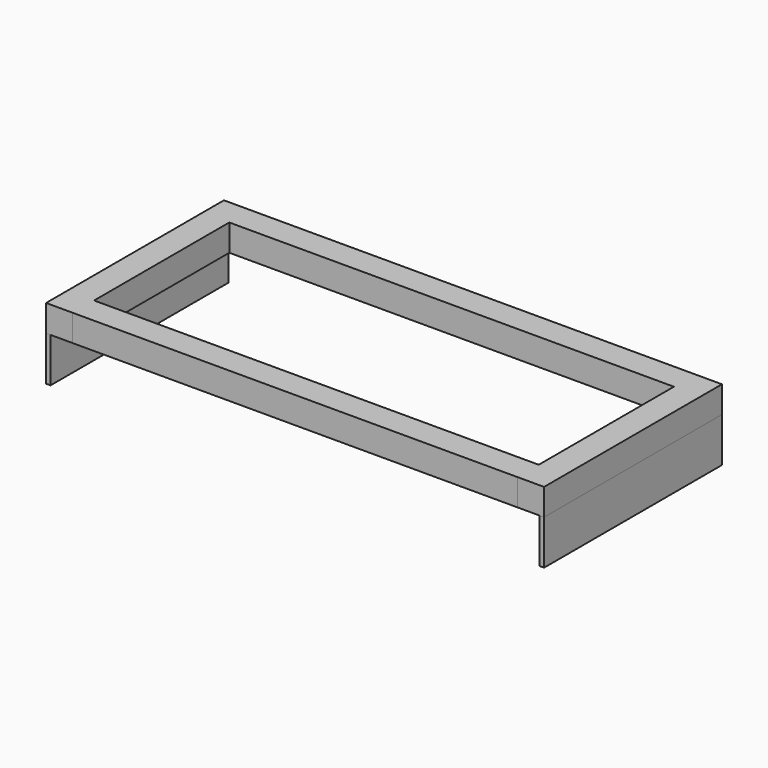
from build123d import *

# Parameters (mm, degrees)
F0_W     = 1000
F0_H     = 60
F0_W_2   = 10
F0_H_2   = 500
F1_DEPTH = 60
F2_DEPTH = 100


with BuildPart() as f1:
    # F0 (on Top) → F1 (new body)
    with BuildSketch(Plane.XY):
        Polygon((1870.842755, 622.134268), (870.842755, 622.134268), (870.842755, 562.175333), (870.842755, 562.134268), (1870.842755, 562.134268), (1870.842755, 562.169433), align=None)
        Polygon((870.842755, 562.175333), (870.842755, 622.134268), (870.842755, 1002.169433), (870.842755, 1062.169433), (870.842755, 1062.175333), (820.842755, 1062.175333), (820.842755, 562.175333), align=None)
        Polygon((1870.842755, 1002.169433), (1870.842755, 622.134268), (1870.842755, 562.169433), (1920.842755, 562.169433), (1920.842755, 1062.169433), (1870.842755, 1062.169433), align=None)
        with Locations((1370.842755, 1032.169433)):
            Rectangle(F0_W, F0_H)
        with Locations((815.842755, 812.175333)):
            Rectangle(F0_W_2, F0_H_2)
        with Locations((1925.842755, 812.169433)):
            Rectangle(F0_W_2, F0_H_2)
    extrude(amount=F1_DEPTH)


with BuildPart() as f2:
    # F0 (on Top) → F2 (new body)
    with BuildSketch(Plane.XY):
        with Locations((1925.842755, 812.169433)):
            Rectangle(F0_W_2, F0_H_2)
        with Locations((815.842755, 812.175333)):
            Rectangle(F0_W_2, F0_H_2)
    extrude(amount=-F2_DEPTH)


solid = Compound([f1.part, f2.part])
